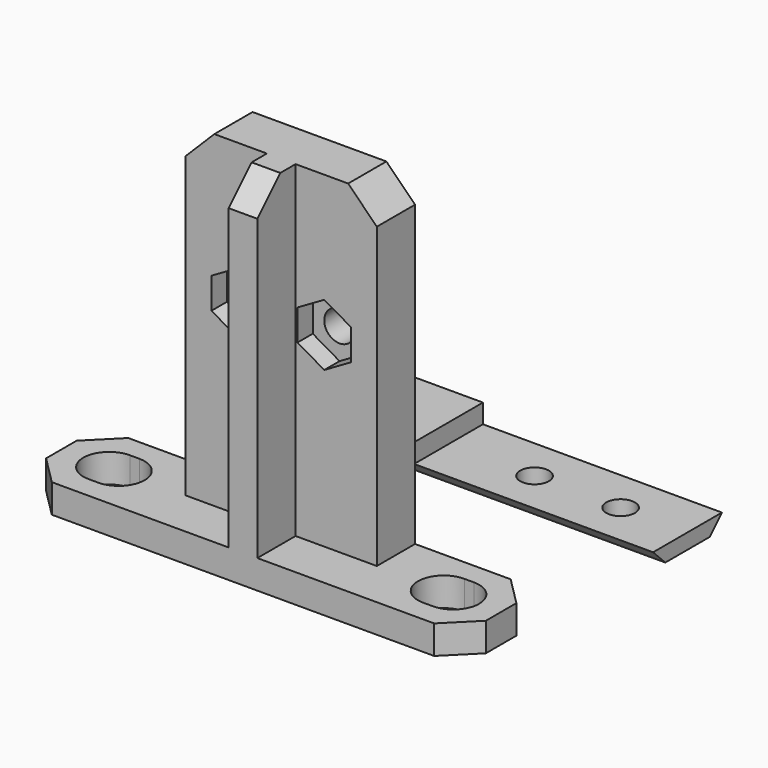
from build123d import *

# Parameters (mm, degrees)
F1_DEPTH        = 3
F3_DEPTH        = 34.25
F4_SIZE         = 3
F6_D            = 3.2
F8_DEPTH        = 3.001
F10_DEPTH       = 2
F13_DEPTH       = 22.5
F14_W           = 20
F14_H           = 9
F15_DEPTH       = 2
F17_D           = 5.2
F17_CBORE_D     = 10
F17_CBORE_DEPTH = 0
F19_D           = 3


with BuildPart() as f1:
    # F0 (on Top) → F1 (new body)
    with BuildSketch(Plane.XY):
        Polygon((20, 5), (0, 5), (-20, 5), (-23, 2), (-23, 0), (-23, -2), (-20, -5), (0, -5), (20, -5), (23, -2), (23, 0), (23, 2), align=None)
    extrude(amount=F1_DEPTH)

    # F2 (on face) → F3 (join)
    with BuildSketch(Plane.XY.offset(3)):
        Polygon((10, 5), (-10, 5), (-10, 0), (-1.5, 0), (-1.5, -5), (1.5, -5), (1.5, 0), (10, 0), align=None)
    extrude(amount=F3_DEPTH)

    # F4
    f4_edges = [f1.edges().sort_by_distance(p)[0] for p in [
        (10, 2.5, 37.25),
        (-10, 2.5, 37.25),
        (0, -5, 37.25),
    ]]
    chamfer(f4_edges, length=F4_SIZE)

    # F6 (through all)
    with Locations(Plane(origin=(0, 5, 0), x_dir=(-1, 0, 0), z_dir=(0, 1, 0))):
        with Locations((-4.5, 22.5), (4.5, 22.5)):
            Hole(F6_D / 2)

    # F7 (on face) → F8 (cut, through all)
    with BuildSketch(Plane.XY.offset(3)):
        with BuildLine():
            ThreePointArc((17, 2.7), (14.3, 0), (17, -2.7))
            Line((17, -2.7), (18, -2.7))
            ThreePointArc((18, -2.7), (20.7, 0), (18, 2.7))
            Line((18, 2.7), (17, 2.7))
        make_face()
        with BuildLine():
            ThreePointArc((-17, -2.7), (-14.3, 0), (-17, 2.7))
            Line((-17, 2.7), (-18, 2.7))
            ThreePointArc((-18, 2.7), (-20.7, 0), (-18, -2.7))
            Line((-18, -2.7), (-17, -2.7))
        make_face()
    extrude(amount=-F8_DEPTH, mode=Mode.SUBTRACT)

    # F9 (on face) → F10 (cut)
    with BuildSketch(Plane.XZ):
        Polygon((7.3, 20.883419), (7.3, 24.116581), (4.5, 25.733162), (1.7, 24.116581), (1.7, 20.883419), (4.5, 19.266838), align=None)
        Polygon((-4.5, 25.733162), (-7.3, 24.116581), (-7.3, 20.883419), (-4.5, 19.266838), (-1.7, 20.883419), (-1.7, 24.116581), align=None)
    extrude(amount=-F10_DEPTH, mode=Mode.SUBTRACT)


with BuildPart() as f1_1:
    # F11: moved
    add(f1.part.moved(Location((0, -25, 0))))


with BuildPart() as f13:
    # F12 (on Right) → F13 (new body, symmetric)
    with BuildSketch(Plane.YZ):
        Polygon((4.5, 0), (0, 0), (-4.5, 0), (-2.9, -1.6), (2.9, -1.6), align=None)
    extrude(amount=F13_DEPTH, both=True)

    # F14 (on face) → F15 (join)
    with BuildSketch(Plane.XY):
        with Locations((-12.5, 0)):
            Rectangle(F14_W, F14_H)
    extrude(amount=F15_DEPTH)

    # F17 (through all)
    with Locations(Plane.XY.offset(2)):
        with Locations((-12.5, 0)):
            CounterBoreHole(F17_D / 2, F17_CBORE_D / 2, F17_CBORE_DEPTH)

    # F19 (through all)
    with Locations(Plane.XY):
        with Locations((6.5, 0), (15.5, 0)):
            Hole(F19_D / 2)


solid = Compound([f1_1.part, f13.part])
